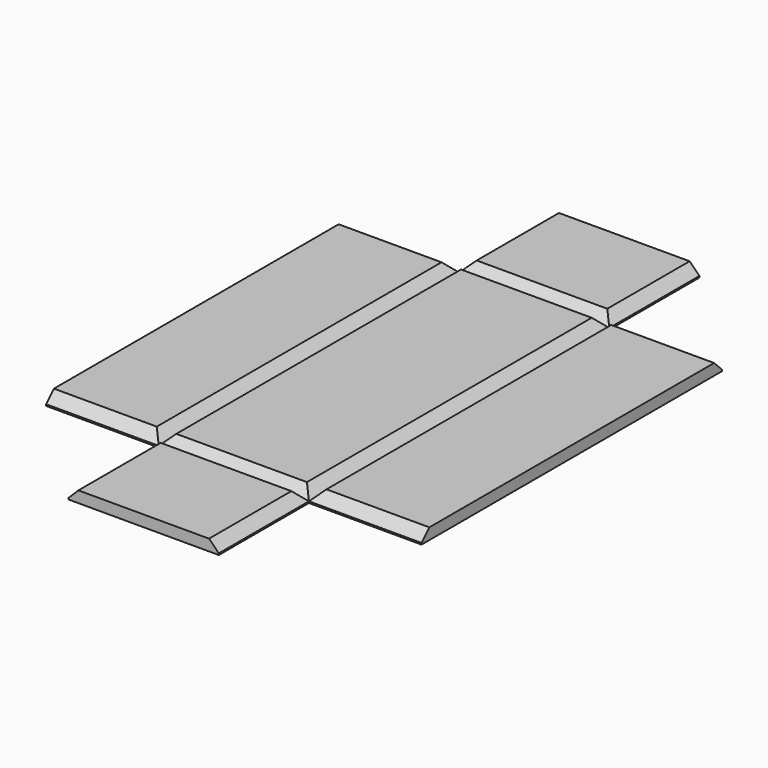
from build123d import *

# Parameters (mm, degrees)
SKETCH_W        = 20
SKETCH_H        = 50
SKETCH_W_2      = 15
SKETCH_H_2      = 15
PAD_DEPTH       = 1.5
POCKET_DEPTH    = 80.001
POCKET001_DEPTH = 50.001


with BuildPart() as part:
    # Sketch → Pad (new body)
    with BuildSketch(Plane.XY):
        Rectangle(SKETCH_W, SKETCH_H)
        with Locations((17.5, 0)):
            Rectangle(SKETCH_W_2, SKETCH_H)
        with Locations((-17.5, 0)):
            Rectangle(SKETCH_W_2, SKETCH_H)
        with Locations((0, 32.5)):
            Rectangle(SKETCH_W, SKETCH_H_2)
        with Locations((0, -32.5)):
            Rectangle(SKETCH_W, SKETCH_H_2)
    extrude(amount=PAD_DEPTH)

    # Sketch001 (on Face6 of Pad) → Pocket (cut, through all)
    with BuildSketch(Plane.XZ.offset(40)):
        Polygon((10, 0.2), (11.3, 1.5), (8.7, 1.5), align=None)
        Polygon((-11.3, 1.5), (-10, 0.2), (-8.7, 1.5), align=None)
    extrude(amount=-POCKET_DEPTH, mode=Mode.SUBTRACT)

    # Sketch002 (on Face10 of Pocket) → Pocket001 (cut, through all)
    with BuildSketch(Plane.YZ.offset(25)):
        Polygon((-25, 0.2), (-23.7, 1.5), (-26.3, 1.5), align=None)
        Polygon((25, 0.2), (26.3, 1.5), (23.7, 1.5), align=None)
    extrude(amount=-POCKET001_DEPTH, mode=Mode.SUBTRACT)


solid = part.part
